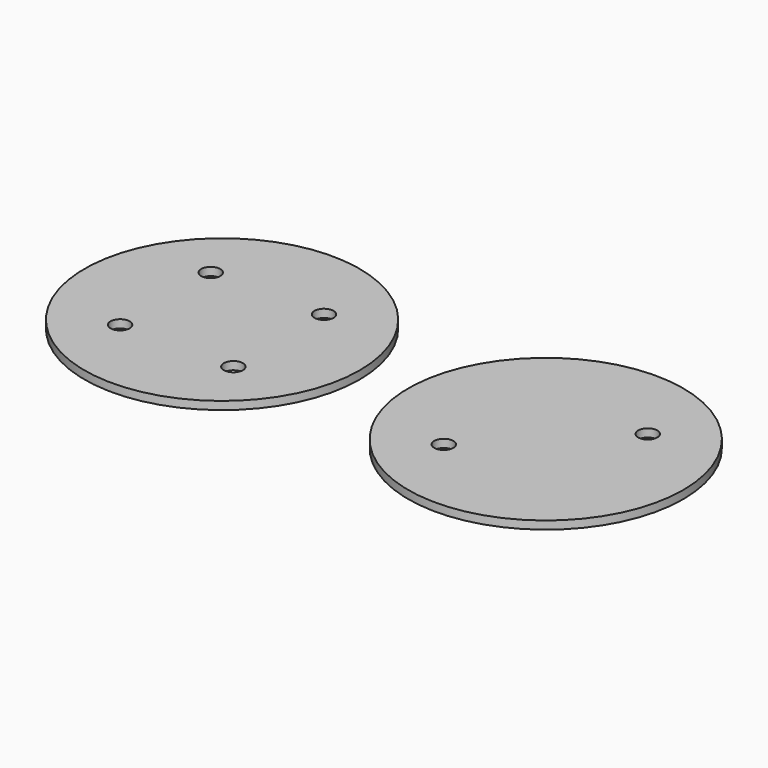
from build123d import *

# Parameters (mm, degrees)
F0_R     = 85
F0_R_2   = 5.9
F1_DEPTH = 5


with BuildPart() as f1:
    # F0 (on Top) → F1 (new body)
    with BuildSketch(Plane.XY):
        Circle(F0_R)
        with Locations((-35, -35)):
            Circle(F0_R_2, mode=Mode.SUBTRACT)
        with Locations((35, -35)):
            Circle(F0_R_2, mode=Mode.SUBTRACT)
        with Locations((-35, 35)):
            Circle(F0_R_2, mode=Mode.SUBTRACT)
        with Locations((35, 35)):
            Circle(F0_R_2, mode=Mode.SUBTRACT)
        with Locations((200, 0)):
            Circle(F0_R)
        with Locations((165, -35)):
            Circle(F0_R_2, mode=Mode.SUBTRACT)
        with Locations((235, 35)):
            Circle(F0_R_2, mode=Mode.SUBTRACT)
        Circle(F0_R)
        with Locations((-35, -35)):
            Circle(F0_R_2, mode=Mode.SUBTRACT)
        with Locations((35, -35)):
            Circle(F0_R_2, mode=Mode.SUBTRACT)
        with Locations((-35, 35)):
            Circle(F0_R_2, mode=Mode.SUBTRACT)
        with Locations((35, 35)):
            Circle(F0_R_2, mode=Mode.SUBTRACT)
    extrude(amount=F1_DEPTH)


solid = f1.part
